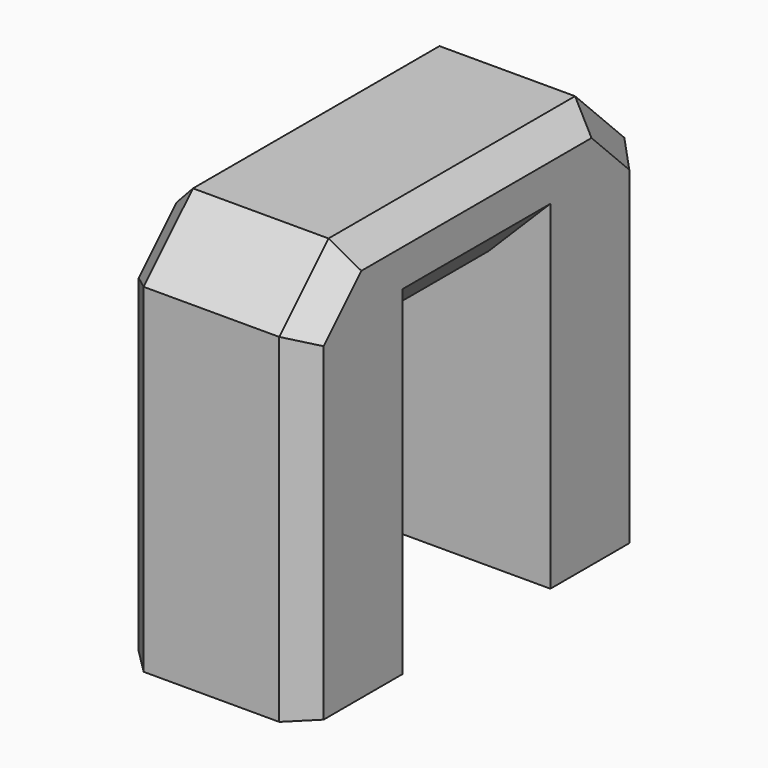
from build123d import *

# Parameters (mm, degrees)
BOX003_W        = 3
BOX003_H        = 3
BOX003_DEPTH    = 4.5
BOX002_W        = 3
BOX002_H        = 7
BOX002_DEPTH    = 6.5
CHAMFER005_SIZE = 1
CHAMFER006_SIZE = 1
CHAMFER007_SIZE = 0.4


with BuildPart() as cube003:
    # Box003 → Box003 (new body)
    with BuildSketch(Plane(origin=(-1.5, -1.5, 0), x_dir=(1, 0, 0), z_dir=(0, 0, 1))):
        with Locations((1.5, 1.5)):
            Rectangle(BOX003_W, BOX003_H)
    extrude(amount=BOX003_DEPTH)


with BuildPart() as obj1:
    # Box002 → Box002 (new body)
    with BuildSketch(Plane(origin=(-1.5, -3.5, 0), x_dir=(1, 0, 0), z_dir=(0, 0, 1))):
        with Locations((1.5, 3.5)):
            Rectangle(BOX002_W, BOX002_H)
    extrude(amount=BOX002_DEPTH)

    # Cut002: cut Cube003
    add(cube003.part, mode=Mode.SUBTRACT)

    # Chamfer005
    chamfer005_edges = [obj1.edges().sort_by_distance(p)[0] for p in [
        (0, 3.5, 6.5),
        (0, -3.5, 6.5),
    ]]
    chamfer(chamfer005_edges, length=CHAMFER005_SIZE)

    # Chamfer006
    chamfer006_edges = [obj1.edges().sort_by_distance(p)[0] for p in [
        (-1.5, 0, 4.5),
        (1.5, 0, 4.5),
    ]]
    chamfer(chamfer006_edges, length=CHAMFER006_SIZE)

    # Chamfer007
    chamfer007_edges = [obj1.edges().sort_by_distance(p)[0] for p in [
        (-1.5, 3.5, 2.75),
        (-1.5, 3, 6),
        (-1.5, 0, 6.5),
        (-1.5, -3, 6),
        (-1.5, -3.5, 2.75),
        (1.5, -3.5, 2.75),
        (1.5, -3, 6),
        (1.5, 0, 6.5),
        (1.5, 3.5, 2.75),
        (1.5, 3, 6),
    ]]
    chamfer(chamfer007_edges, length=CHAMFER007_SIZE)


with BuildPart() as obj1_1:
    # Chamfer007001 placement: moved
    add(obj1.part.moved(Location((-4, 10, 0))))


solid = obj1_1.part
